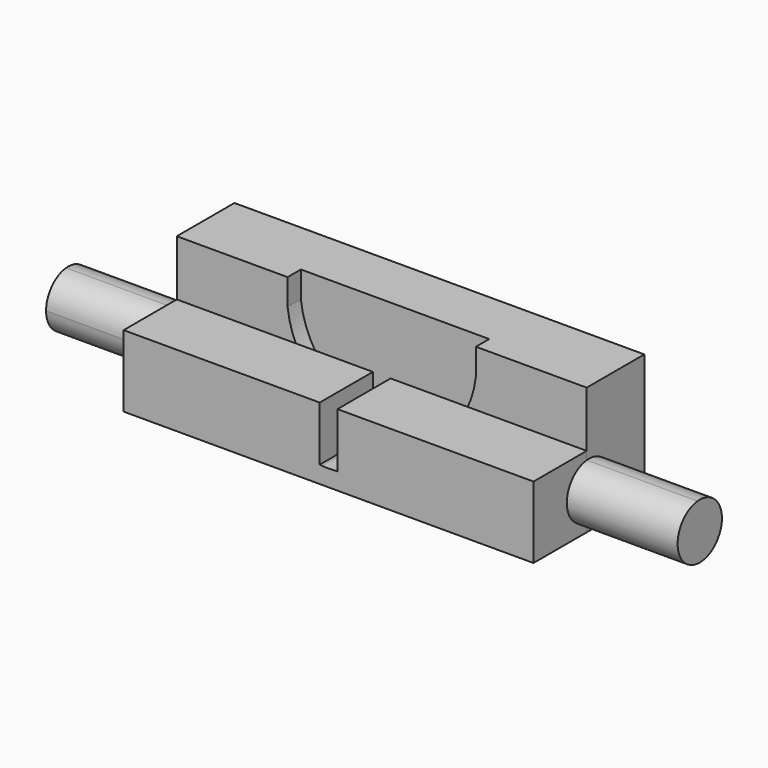
from build123d import *

# Parameters (mm, degrees)
F1_DEPTH = 5
F2_DEPTH = 6.5
F4_DEPTH = 6
F6_DEPTH = 10
F8_DEPTH = 10


with BuildPart() as f1:
    # F0 (on Front) → F1 (new body)
    with BuildSketch(Plane.XZ):
        with BuildLine():
            Line((-8.5, 2.3556), (-8.5, 0))
            ThreePointArc((-8.5, 0), (0, -7.6444), (8.5, 0))
            Line((8.5, 0), (8.5, 2.3556))
            Line((8.5, 2.3556), (-8.5, 2.3556))
        make_face()
    extrude(amount=F1_DEPTH)

    # F0 (on Front) → F2 (join)
    with BuildSketch(Plane.XZ):
        with BuildLine():
            ThreePointArc((8.5, 0), (0, -7.6444), (-8.5, 0))
            Line((-8.5, 0), (-8.5, 2.3556))
            Line((-8.5, 2.3556), (-18.5, 2.3556))
            Line((-18.5, 2.3556), (-18.5, -9.1444))
            Line((-18.5, -9.1444), (18.5, -9.1444))
            Line((18.5, -9.1444), (18.5, 2.3556))
            Line((18.5, 2.3556), (8.5, 2.3556))
            Line((8.5, 2.3556), (8.5, 0))
        make_face()
    extrude(amount=F2_DEPTH)


with BuildPart() as f4:
    # F3 (on face) → F4 (new body)
    with BuildSketch(Plane.XZ.offset(6.5)):
        with BuildLine():
            Line((-7.765819, -2.6684), (-18.5, -2.6684))
            Line((-18.5, -2.6684), (-18.5, -9.1444))
            Line((-18.5, -9.1444), (18.5, -9.1444))
            Line((18.5, -9.1444), (18.5, -2.6684))
            Line((18.5, -2.6684), (7.765819, -2.6684))
            ThreePointArc((7.765819, -2.6684), (4.94373, -6.06974), (0.8, -7.606881))
            Line((0.8, -7.606881), (0.8, -7.623304))
            Line((0.8, -7.623304), (0.600173, -7.623304))
            ThreePointArc((0.600173, -7.623304), (0, -7.6444), (-0.600173, -7.623304))
            ThreePointArc((-0.600173, -7.623304), (-0.700135, -7.615679), (-0.8, -7.606881))
            ThreePointArc((-0.8, -7.606881), (-4.94373, -6.06974), (-7.765819, -2.6684))
        make_face()
        with BuildLine():
            Line((-0.8, -2.6684), (-7.765819, -2.6684))
            ThreePointArc((-7.765819, -2.6684), (-4.94373, -6.06974), (-0.8, -7.606881))
            Line((-0.8, -7.606881), (-0.8, -2.6684))
        make_face()
        with BuildLine():
            ThreePointArc((0.8, -7.606881), (4.94373, -6.06974), (7.765819, -2.6684))
            Line((7.765819, -2.6684), (0.8, -2.6684))
            Line((0.8, -2.6684), (0.8, -7.606881))
        make_face()
    extrude(amount=F4_DEPTH)


with BuildPart() as f6:
    # F5 (on face) → F6 (new body)
    with BuildSketch(Plane.YZ.offset(18.5)):
        with BuildLine():
            Line((-6.5, -8.385049), (-6.5, -3.412058))
            ThreePointArc((-6.5, -3.412058), (-8.7405, -5.898553), (-6.5, -8.385049))
        make_face()
        with BuildLine():
            ThreePointArc((-6.5, -8.385049), (-4.566993, -7.755803), (-3.7405, -5.898553))
            ThreePointArc((-3.7405, -5.898553), (-4.566993, -4.041304), (-6.5, -3.412058))
            Line((-6.5, -3.412058), (-6.5, -8.385049))
        make_face()
    extrude(amount=F6_DEPTH)


with BuildPart() as f8:
    # F7 (on face) → F8 (new body)
    with BuildSketch(Plane(origin=(-18.5, 0, 0), x_dir=(0, -1, 0), z_dir=(-1, 0, 0))):
        with BuildLine():
            Line((6.5, -8.393869), (6.5, -3.418931))
            ThreePointArc((6.5, -3.418931), (3.75, -5.9064), (6.5, -8.393869))
        make_face()
        with BuildLine():
            ThreePointArc((6.5, -8.393869), (8.10405, -7.583451), (8.75, -5.9064))
            ThreePointArc((8.75, -5.9064), (8.10405, -4.229349), (6.5, -3.418931))
            Line((6.5, -3.418931), (6.5, -8.393869))
        make_face()
    extrude(amount=F8_DEPTH)


solid = Compound([f1.part, f4.part, f6.part, f8.part])
